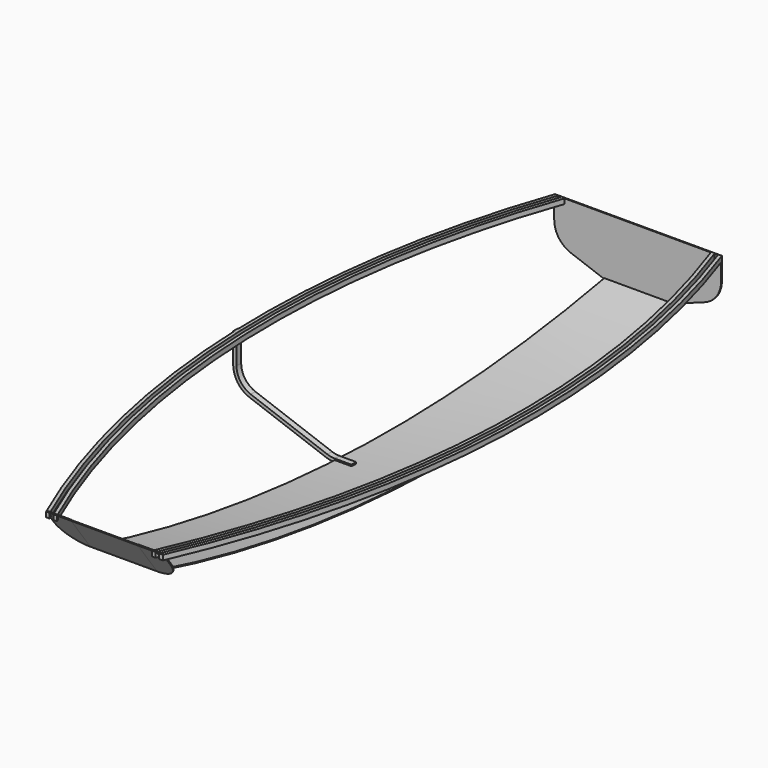
from build123d import *

# Parameters (mm, degrees)
F0_W           = 4000
F0_H           = 500
F1_DEPTH       = 200
F1_DEPTH_BACK  = 200
F3_DEPTH       = 400.001
F5_DEPTH       = 400.001
F26_DEPTH      = 6
F29_DEPTH      = 30
F32_DEPTH      = 6
F35_DEPTH      = 25
F35_DEPTH_BACK = 10


with BuildPart() as f1:
    # F0 (on Right) → F1 (new body, two sides)
    with BuildSketch(Plane.YZ) as f1_sk:
        with Locations((-2000, 250)):
            Rectangle(F0_W, F0_H)
    extrude(amount=F1_DEPTH)
    extrude(f1_sk.sketch, amount=-F1_DEPTH_BACK)

    # F2 (on face) → F3 (cut, through all)
    with BuildSketch(Plane.YZ.offset(200)):
        with BuildLine():
            Line((-4000, 0), (-1600.0000000026, 0))
            ThreePointArc((-1600.0000000026, 0), (-2737.9356206878, 76.5148232356), (-3855.3844312859, 304.6817592535))
            Line((-3855.3844312859, 304.6817592535), (-4000, 500))
            Line((-4000, 500), (-4000, 0))
        make_face()
        with BuildLine():
            Line((-1600.0000000026, 0), (0, 0))
            Line((0, 0), (0, 151.9463346239))
            ThreePointArc((0, 151.9463346239), (-796.400645751, 38.0718463313), (-1600.0000000026, 0))
        make_face()
    extrude(amount=-F3_DEPTH, mode=Mode.SUBTRACT)

    # F4 (on face) → F5 (cut, through all)
    with BuildSketch(Plane.YZ.offset(200)):
        with BuildLine():
            Line((-3992.5343822664, 500), (-3851.7952898551, 309.9173403081))
            ThreePointArc((-3851.7952898551, 309.9173403081), (-1937.6783946313, 12.7148450285), (-6, 156.9070483423))
            Line((-6, 156.9070483423), (-6, 500))
            Line((-6, 500), (-3992.5343822664, 500))
        make_face()
    extrude(amount=-F5_DEPTH, mode=Mode.SUBTRACT)

    # F27: F26 across plane


with BuildPart() as f26:
    # F25 (on face) → F26 (new body)
    with BuildSketch(Plane(origin=(0, -2344.5154791668, -1735.9025868895), x_dir=(1, 0, 0), z_dir=(0, -0.8036843318, -0.5950558753))):
        with BuildLine():
            ThreePointArc((-350, 2689.0371135927), (-306.066017178, 2582.9710964148), (-200, 2539.0371135927))
            Line((-200, 2539.0371135927), (-200, 2782.0656672296))
            Line((-200, 2782.0656672296), (-350, 2782.0656672296))
            Line((-350, 2782.0656672296), (-350, 2689.0371135927))
        make_face()
    extrude(amount=-F26_DEPTH)


with BuildPart() as f1_1:
    add(f1.part)
    add(f26.part.mirror(Plane.YZ))

    # F30: F29b, F29 across plane


with BuildPart() as f29:
    # F28 (on offset) → F29 (new body)
    with BuildSketch(Plane.XY.offset(500)):
        with BuildLine():
            ThreePointArc((-284.4229383362, -4000), (-744.9071467691, -2014.6053694553), (-436.3577170606, 0))
            Line((-436.3577170606, 0), (-457.5816106766, 0))
            ThreePointArc((-457.5816106766, 0), (-764.926072552, -2014.4849248984), (-306.2976636714, -4000))
            Line((-306.2976636714, -4000), (-284.4229383362, -4000))
        make_face()
    extrude(amount=-F29_DEPTH)


with BuildPart() as f29b:
    # F28 (on offset) → F29, piece 2 (new body)
    with BuildSketch(Plane.XY.offset(500)):
        with BuildLine():
            Line((-478.7956644468, 0), (-500, 0))
            ThreePointArc((-500, 0), (-804.9633274196, -2014.2486247782), (-350, -4000))
            Line((-350, -4000), (-328.1566152482, -4000))
            ThreePointArc((-328.1566152482, -4000), (-702.1165903, -2776.7570568907), (-779.967592138, -1500))
            ThreePointArc((-779.967592138, -1500), (-682.4018888445, -739.3545239486), (-478.7956644468, 0))
        make_face()
    extrude(amount=-F29_DEPTH)


with BuildPart() as f1_2:
    add(f1_1.part)
    add(f29b.part.mirror(Plane.YZ))
    add(f29.part.mirror(Plane.YZ))



with BuildPart() as f32:
    # F31 (on Front) → F32 (new body)
    with BuildSketch(Plane.XZ):
        with BuildLine():
            Line((200, 500), (200, 151.9463346239))
            Line((200, 151.9463346239), (401.3030214989, 225.2146425173))
            ThreePointArc((401.3030214989, 225.2146425173), (472.8728066433, 280.1320701825), (500, 366.1685356352))
            Line((500, 366.1685356352), (500, 470))
            Line((500, 470), (500, 500))
            Line((500, 500), (200, 500))
        make_face()
    extrude(amount=F32_DEPTH)


with BuildPart() as f1_3:
    add(f1_2.part)

    add(f26.part)  # F33 merges F26

    add(f29.part)  # F33 merges F29

    add(f29b.part)  # F33 merges F29b

    add(f32.part)  # F33 merges F32
    # F33: F32 across plane
    add(f32.part.mirror(Plane.YZ))


with BuildPart() as f35:
    # F34 (on offset) → F35 (new body, two sides)
    with BuildSketch(Plane.XZ.offset(2000)) as f35_sk:
        with BuildLine():
            Line((-200, 6), (-100, 6))
            Line((-100, 6), (-100, 26))
            Line((-100, 26), (-200, 26))
            ThreePointArc((-200, 26), (-222.5742630967, 27.9749921084), (-244.4626186323, 33.8399592978))
            Line((-244.4626186323, 33.8399592978), (-703.259194824, 200.8282566149))
            ThreePointArc((-703.259194824, 200.8282566149), (-765.2863419493, 248.4233605914), (-788.7965761917, 322.988297317))
            Line((-788.7965761917, 322.988297317), (-788.7965761917, 500))
            Line((-788.7965761917, 500), (-808.7965761917, 500))
            Line((-808.7965761917, 500), (-808.7965761917, 470))
            Line((-808.7965761917, 470), (-808.7965761917, 322.988297317))
            ThreePointArc((-808.7965761917, 322.988297317), (-781.669382835, 236.9518318644), (-710.0995976905, 182.0344041991))
            Line((-710.0995976905, 182.0344041991), (-251.3030214989, 15.0461068821))
            ThreePointArc((-251.3030214989, 15.0461068821), (-226.04722665, 8.2788370482), (-200, 6))
        make_face()
    extrude(amount=F35_DEPTH)
    extrude(f35_sk.sketch, amount=-F35_DEPTH_BACK)


solid = Compound([f1_3.part, f35.part])
